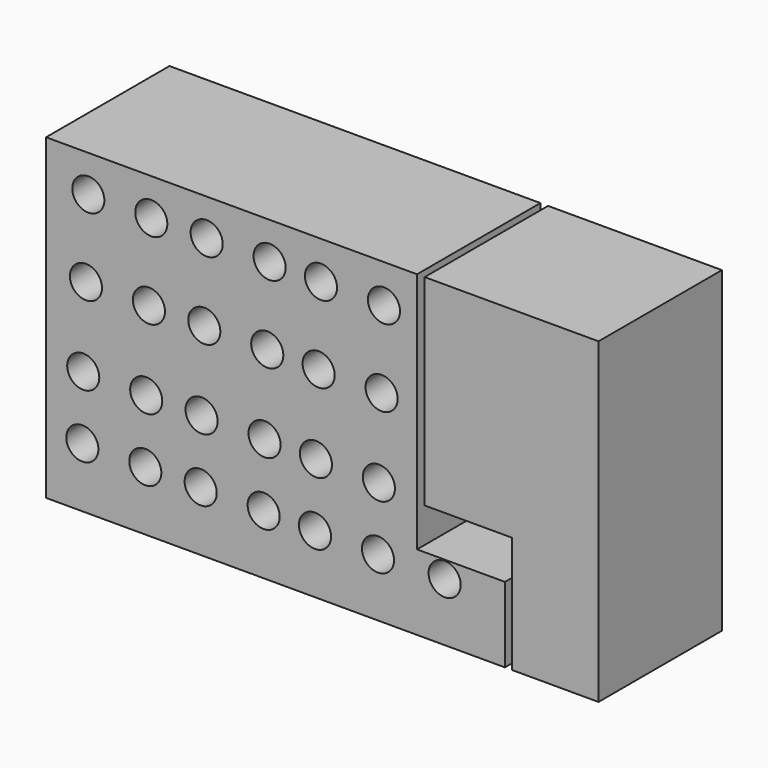
from build123d import *

# Parameters (mm, degrees)
F0_W     = 18.107012
F0_H     = 15.499976
F1_DEPTH = 31.75
F2_R     = 3.303984
F3_DEPTH = 37.592
F4_DEPTH = 31.75


with BuildPart() as f1:
    # F0 (on Front) → F1 (new body)
    with BuildSketch(Plane.XZ):
        Polygon((0, 65.361187), (0, 0), (76.358415, 0), (76.358415, 15.499976), (76.358415, 65.361187), align=None)
        with Locations((85.411921, 7.749988)):
            Rectangle(F0_W, F0_H)
    extrude(amount=F1_DEPTH)

    # F2 (on face) → F3 (cut)
    with BuildSketch(Plane.XZ.offset(31.75)):
        with Locations((20.611715, 25.298972)):
            Circle(F2_R)
        with Locations((32.010265, 25.352892)):
            Circle(F2_R)
        with Locations((44.973635, 25.284049)):
            Circle(F2_R)
        with Locations((55.546869, 25.111247)):
            Circle(F2_R)
        with Locations((7.461179, 12.307474)):
            Circle(F2_R)
        with Locations((31.823099, 12.292551)):
            Circle(F2_R)
        with Locations((55.359703, 12.050906)):
            Circle(F2_R)
        with Locations((68.510239, 25.042404)):
            Circle(F2_R)
        with Locations((20.424549, 12.238631)):
            Circle(F2_R)
        with Locations((44.786469, 12.223708)):
            Circle(F2_R)
        with Locations((68.323073, 11.982063)):
            Circle(F2_R)
        with Locations((7.648345, 25.367816)):
            Circle(F2_R)
        with Locations((69.068785, 41.466772)):
            Circle(F2_R)
        with Locations((56.105415, 41.535615)):
            Circle(F2_R)
        with Locations((45.532181, 41.708416)):
            Circle(F2_R)
        with Locations((32.568811, 41.77726)):
            Circle(F2_R)
        with Locations((21.170261, 41.72334)):
            Circle(F2_R)
        with Locations((8.206891, 41.792183)):
            Circle(F2_R)
        with Locations((69.554341, 57.493545)):
            Circle(F2_R)
        with Locations((56.590971, 57.562388)):
            Circle(F2_R)
        with Locations((46.017737, 57.73519)):
            Circle(F2_R)
        with Locations((33.054367, 57.804033)):
            Circle(F2_R)
        with Locations((21.655817, 57.750113)):
            Circle(F2_R)
        with Locations((8.692447, 57.818957)):
            Circle(F2_R)
        with Locations((82.04104, 11.982063)):
            Circle(F2_R)
    extrude(amount=-F3_DEPTH, mode=Mode.SUBTRACT)


with BuildPart() as f4:
    # F0 (on Front) → F4 (new body)
    with BuildSketch(Plane.XZ):
        Polygon((95.866144, 15.693461), (95.866144, 0), (113.725051, 0), (113.725051, 65.361187), (77.936605, 65.361187), (77.936605, 23.975298), (95.864983, 23.975298), align=None)
    extrude(amount=F4_DEPTH)


solid = Compound([f1.part, f4.part])
